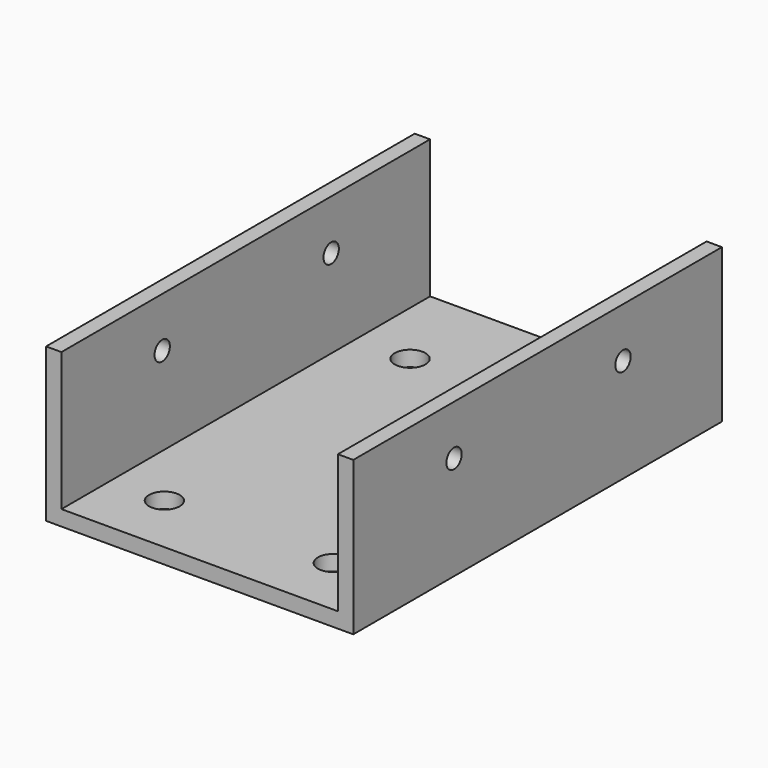
from build123d import *

# Parameters (mm, degrees)
CYLINDER_R           = 1.25
CYLINDER_DEPTH       = 2
CYLINDER_PITCH_ANGLE = 90
ARRAY_X_COUNT        = 2
ARRAY_X_PITCH        = 38
ARRAY_Y_COUNT        = 2
ARRAY_Y_PITCH        = 27.5
CYLINDER001_R        = 2
CYLINDER001_DEPTH    = 2
ARRAY001_X_COUNT     = 2
ARRAY001_X_PITCH     = 22
ARRAY001_Y_COUNT     = 2
ARRAY001_Y_PITCH     = 40
BOX001_W             = 2
BOX001_H             = 60
BOX001_DEPTH         = 20
BOX_W                = 40
BOX_H                = 60
BOX_DEPTH            = 2
BOX002_W             = 2
BOX002_H             = 60
BOX002_DEPTH         = 20


with BuildPart() as array:
    # Cylinder → Cylinder (new body)
    with BuildSketch(Plane.XY):
        Circle(CYLINDER_R)
    extrude(amount=CYLINDER_DEPTH)


with BuildPart() as array_1:
    # Cylinder pitch: moved
    add(array.part.rotate(Axis((0, 0, 0), (0, 1, 0)), CYLINDER_PITCH_ANGLE))


with BuildPart() as array_2:
    # Cylinder placement: moved
    add(array_1.part.moved(Location((0, 16.4, 13.5))))

    # Array X: Array ×2


with BuildPart() as array_3:
    add(array_2.part)
    with Locations(*[(i * ARRAY_X_PITCH, 0, 0) for i in range(1, ARRAY_X_COUNT)]):
        add(array_2.part)

    # Array Y: Array ×2


with BuildPart() as array_4:
    add(array_3.part)
    with Locations(*[(0, i * ARRAY_Y_PITCH, 0) for i in range(1, ARRAY_Y_COUNT)]):
        add(array_3.part)


with BuildPart() as array_5:
    # Array placement: moved
    add(array_4.part.moved(Location((2, 40, 0))))


with BuildPart() as array001:
    # Cylinder001 → Cylinder001 (new body)
    with BuildSketch(Plane(origin=(11, 48, 0), x_dir=(1, 0, 0), z_dir=(0, 0, 1))):
        Circle(CYLINDER001_R)
    extrude(amount=CYLINDER001_DEPTH)

    # Array001 X: Array001 ×2


with BuildPart() as array001_1:
    add(array001.part)
    with Locations(*[(i * ARRAY001_X_PITCH, 0, 0) for i in range(1, ARRAY001_X_COUNT)]):
        add(array001.part)

    # Array001 Y: Array001 ×2


with BuildPart() as array001_2:
    add(array001_1.part)
    with Locations(*[(0, i * ARRAY001_Y_PITCH, 0) for i in range(1, ARRAY001_Y_COUNT)]):
        add(array001_1.part)


with BuildPart() as cubo001:
    # Box001 → Box001 (new body)
    with BuildSketch(Plane.XY):
        with Locations((1, 30)):
            Rectangle(BOX001_W, BOX001_H)
    extrude(amount=BOX001_DEPTH)


with BuildPart() as cubo:
    # Box → Box (new body)
    with BuildSketch(Plane.XY):
        with Locations((20, 30)):
            Rectangle(BOX_W, BOX_H)
    extrude(amount=BOX_DEPTH)


with BuildPart() as obj1:
    # Box002 → Box002 (new body)
    with BuildSketch(Plane(origin=(38, 0, 0), x_dir=(1, 0, 0), z_dir=(0, 0, 1))):
        with Locations((1, 30)):
            Rectangle(BOX002_W, BOX002_H)
    extrude(amount=BOX002_DEPTH)

    # Fusion: union Cubo001, Cubo
    add(cubo001.part)
    add(cubo.part)

    # Cut: cut Array
    add(array_5.part, mode=Mode.SUBTRACT)


with BuildPart() as obj1_1:
    # Cut placement: moved
    add(obj1.part.moved(Location((2, 40, 0))))

    # Cut001: cut Array001
    add(array001_2.part, mode=Mode.SUBTRACT)

    # Cut002: cut Array
    add(array_5.part, mode=Mode.SUBTRACT)


with BuildPart() as obj1_2:
    # Cut002 placement: moved
    add(obj1_1.part.moved(Location((0.5, -89, -15.5))))


solid = obj1_2.part
